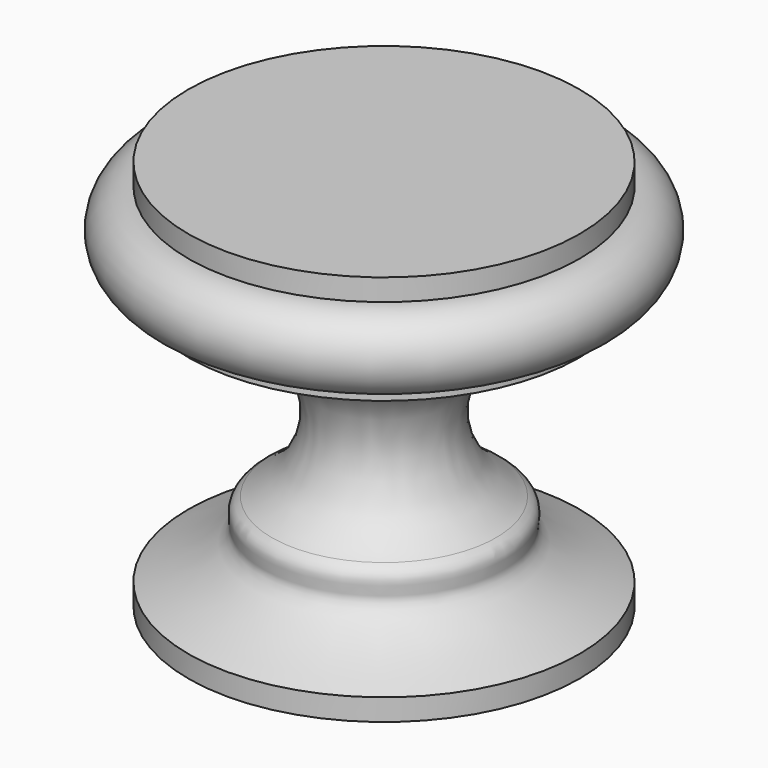
from build123d import *


with BuildPart() as f1:
    # F0 (on Front) → F1 (revolve)
    with BuildSketch(Plane.XZ):
        with BuildLine():
            Line((-9, 0), (0, 0))
            Line((0, 0), (0, 18))
            Line((0, 18), (-9, 18))
            Line((-9, 18), (-9, 17))
            Line((-9, 17), (-9, 13.5))
            Line((-9, 13.5), (-9, 13))
            add(Edge.make_bspline(
                [(-9, 13), (-3.0127796344, 12.4388290569), (-1.0651612843, 6.8851449664), (-5.1587042399, 4.4551976025)],
                knots=[0, 0, 0, 0, 9.368521822, 9.368521822, 9.368521822, 9.368521822], degree=3))
            add(Edge.make_bspline(
                [(-9, 1), (-7.5464079861, 1.5811309347), (-4.7664688829, 2.7952623711), (-5.8595344675, 4.0133028106), (-5.1587042399, 4.4551976025)],
                knots=[0, 0, 0, 0, 0.6275907877, 1, 1, 1, 1], degree=3))
            Line((-9, 1), (-9, 0))
        make_face()
        with BuildLine():
            Line((-9, 13.5), (-9, 17))
            ThreePointArc((-9, 17), (-10.75, 15.25), (-9, 13.5))
        make_face()
    revolve(axis=Axis((0, 0, 9), (0, 0, -1)))


solid = f1.part
